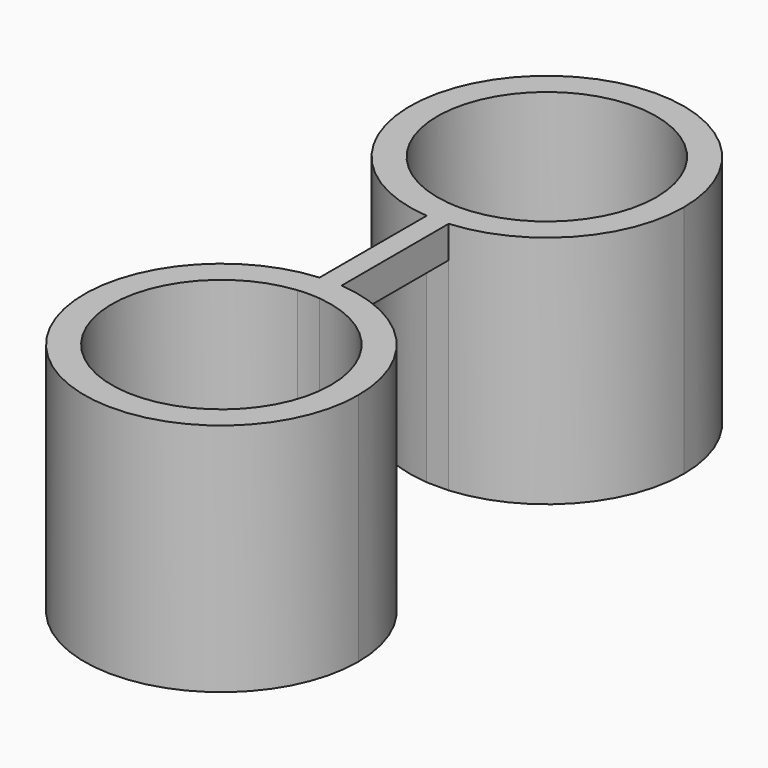
from build123d import *

# Parameters (mm, degrees)
F1_DEPTH = 7.62
F2_W     = 0.7116579933
F2_H     = 4.3465304322
F3_DEPTH = 6.5786


with BuildPart() as f1:
    # F0 (on Top) → F1 (new body)
    with BuildSketch(Plane.XY):
        with BuildLine():
            ThreePointArc((-0.3558289966, 3.0658476962), (-2.3853519749, 9.2412773756), (3.556, 6.604))
            ThreePointArc((3.556, 6.604), (2.6372773756, 4.2186480251), (0.3558289966, 3.0658476962))
            Line((0.3558289966, 3.0658476962), (0.3558289966, 2.1732652161))
            ThreePointArc((0.3558289966, 2.1732652161), (3.2664724773, 3.589338733), (4.445, 6.604))
            ThreePointArc((4.445, 6.604), (-3.014661267, 9.8704724773), (-0.3558289966, 2.1732652161))
            Line((-0.3558289966, 2.1732652161), (-0.3558289966, 3.0658476962))
        make_face()
        with BuildLine():
            ThreePointArc((0.3558289966, 3.0658476962), (0, 3.048), (-0.3558289966, 3.0658476962))
            Line((-0.3558289966, 3.0658476962), (-0.3558289966, 2.1732652161))
            ThreePointArc((-0.3558289966, 2.1732652161), (0, 2.159), (0.3558289966, 2.1732652161))
            Line((0.3558289966, 2.1732652161), (0.3558289966, 3.0658476962))
        make_face()
        with BuildLine():
            ThreePointArc((0.3558289966, 2.1732652161), (0, 2.159), (-0.3558289966, 2.1732652161))
            Line((-0.3558289966, 2.1732652161), (-0.3558289966, -2.1732652161))
            ThreePointArc((-0.3558289966, -2.1732652161), (0, -2.159), (0.3558289966, -2.1732652161))
            Line((0.3558289966, -2.1732652161), (0.3558289966, 2.1732652161))
        make_face()
        with BuildLine():
            Line((-0.3558289966, -3.0658476962), (-0.3558289966, -2.1732652161))
            ThreePointArc((-0.3558289966, -2.1732652161), (-3.014661267, -9.8704724773), (4.445, -6.604))
            ThreePointArc((4.445, -6.604), (3.2664724773, -3.589338733), (0.3558289966, -2.1732652161))
            Line((0.3558289966, -2.1732652161), (0.3558289966, -3.0658476962))
            ThreePointArc((0.3558289966, -3.0658476962), (2.6372773756, -4.2186480251), (3.556, -6.604))
            ThreePointArc((3.556, -6.604), (-2.3853519749, -9.2412773756), (-0.3558289966, -3.0658476962))
        make_face()
        with BuildLine():
            ThreePointArc((0.3558289966, -2.1732652161), (0, -2.159), (-0.3558289966, -2.1732652161))
            Line((-0.3558289966, -2.1732652161), (-0.3558289966, -3.0658476962))
            ThreePointArc((-0.3558289966, -3.0658476962), (0, -3.048), (0.3558289966, -3.0658476962))
            Line((0.3558289966, -3.0658476962), (0.3558289966, -2.1732652161))
        make_face()
    extrude(amount=F1_DEPTH)

    # F2 (on face) → F3 (cut)
    with BuildSketch(Plane(origin=(0, 0, 0), x_dir=(1, 0, 0), z_dir=(0, 0, -1))):
        Rectangle(F2_W, F2_H)
    extrude(amount=-F3_DEPTH, mode=Mode.SUBTRACT)


solid = f1.part
